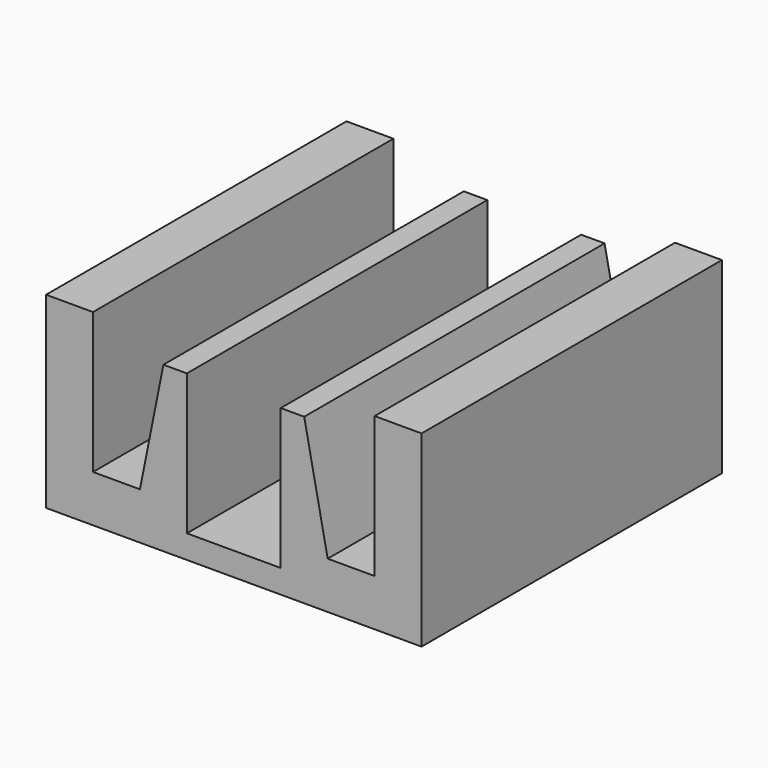
from build123d import *

# Parameters (mm, degrees)
F0_W     = 25.4
F0_H     = 12.7
F1_DEPTH = 25.4
F2_W     = 6.35
F2_H     = 9.525
F3_DEPTH = 25.4
F5_DEPTH = 25.401


with BuildPart() as f1:
    # F0 (on Front) → F1 (new body)
    with BuildSketch(Plane.XZ):
        Rectangle(F0_W, F0_H)
    extrude(amount=F1_DEPTH)

    # F2 (on face) → F3 (cut)
    with BuildSketch(Plane.XZ.offset(25.4)):
        Rectangle(F2_W, F2_H)
    extrude(amount=-F3_DEPTH, mode=Mode.SUBTRACT)

    # F4 (on face) → F5 (cut, through all)
    with BuildSketch(Plane.XZ.offset(25.4)):
        Polygon((-4.7625, 4.7625), (-3.175, 4.7625), (3.175, 4.7625), (4.7625, 4.7625), (6.35, -3.175), (9.525, -3.175), (9.525, 6.35), (0, 6.35), (-9.525, 6.35), (-9.525, -3.175), (-6.35, -3.175), align=None)
    extrude(amount=-F5_DEPTH, mode=Mode.SUBTRACT)


solid = f1.part
